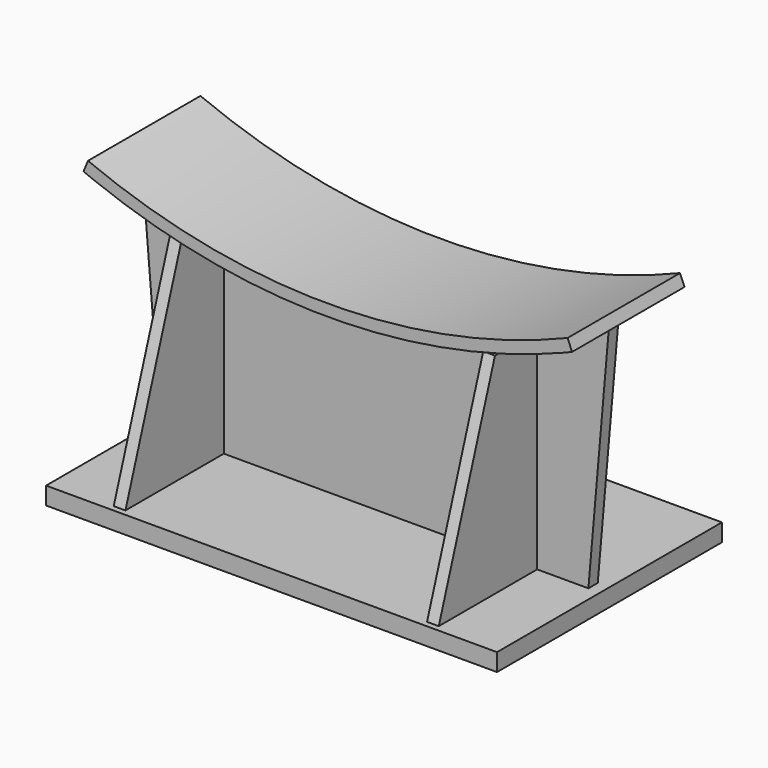
from build123d import *

# Parameters (mm, degrees)
F1_DEPTH  = 152.4
F2_DEPTH  = 12.7
F3_DEPTH  = 76.2
F4_W      = 12.7
F4_H      = 227.33
F5_DEPTH  = 25.4
F6_DEPTH  = 133.35
F8_DEPTH  = 12.7
F10_DEPTH = 12.7


with BuildPart() as f1:
    # F0 (on Front) → F1 (new body, symmetric)
    with BuildSketch(Plane.XZ):
        Polygon((231.775, -973.5972180367), (-231.775, -973.5972180367), (-244.475, -973.5972180367), (-244.475, -992.6472180367), (244.475, -992.6472180367), (244.475, -973.5972180367), align=None)
    extrude(amount=F1_DEPTH, both=True)

    # F0 (on Front) → F2 (join)
    with BuildSketch(Plane.XZ):
        with BuildLine():
            ThreePointArc((260.0142581205, -699.6271664014), (0, -751.3472180367), (-260.0142581205, -699.6271664014))
            Line((-260.0142581205, -699.6271664014), (-264.8743377115, -711.3604364643))
            ThreePointArc((-264.8743377115, -711.3604364643), (-259.0018869142, -713.7614132329), (-253.1076754433, -716.1084622195))
            ThreePointArc((-253.1076754433, -716.1084622195), (0.5785166895, -764.0469762671), (254.1842179232, -715.6844545199))
            ThreePointArc((254.1842179232, -715.6844545199), (259.5382829708, -713.5447086205), (264.8743377115, -711.3604364643))
            Line((264.8743377115, -711.3604364643), (260.0142581205, -699.6271664014))
        make_face()
        with BuildLine():
            ThreePointArc((254.1842179232, -715.6844545199), (0.5785166895, -764.0469762671), (-253.1076754433, -716.1084622195))
            Line((-253.1076754433, -716.1084622195), (-231.775, -973.5972180367))
            Line((-231.775, -973.5972180367), (231.775, -973.5972180367))
            Line((231.775, -973.5972180367), (254.1842179232, -715.6844545199))
        make_face()
        Polygon((231.775, -973.5972180367), (-231.775, -973.5972180367), (-244.475, -973.5972180367), (-244.475, -992.6472180367), (244.475, -992.6472180367), (244.475, -973.5972180367), align=None)
    extrude(amount=F2_DEPTH)

    # F0 (on Front) → F3 (join, symmetric)
    with BuildSketch(Plane.XZ):
        with BuildLine():
            ThreePointArc((260.0142581205, -699.6271664014), (0, -751.3472180367), (-260.0142581205, -699.6271664014))
            Line((-260.0142581205, -699.6271664014), (-264.8743377115, -711.3604364643))
            ThreePointArc((-264.8743377115, -711.3604364643), (-259.0018869142, -713.7614132329), (-253.1076754433, -716.1084622195))
            ThreePointArc((-253.1076754433, -716.1084622195), (0.5785166895, -764.0469762671), (254.1842179232, -715.6844545199))
            ThreePointArc((254.1842179232, -715.6844545199), (259.5382829708, -713.5447086205), (264.8743377115, -711.3604364643))
            Line((264.8743377115, -711.3604364643), (260.0142581205, -699.6271664014))
        make_face()
    extrude(amount=F3_DEPTH, both=True)

    # F4 (on face) → F5 (join)
    with BuildSketch(Plane.XZ.offset(12.7)):
        with Locations((-169.8625, -859.9322180367)):
            Rectangle(F4_W, F4_H)
        with Locations((169.8625, -859.9322180367)):
            Rectangle(F4_W, F4_H)
    extrude(amount=F5_DEPTH)

    # F4 (on face) → F6 (join)
    with BuildSketch(Plane.XZ.offset(12.7)):
        with Locations((-169.8625, -859.9322180367)):
            Rectangle(F4_W, F4_H)
        with Locations((169.8625, -859.9322180367)):
            Rectangle(F4_W, F4_H)
    extrude(amount=F6_DEPTH)

    # F7 (on face) → F8 (cut)
    with BuildSketch(Plane(origin=(-176.2125, 0, 0), x_dir=(0, -1, 0), z_dir=(-1, 0, 0))):
        Polygon((146.05, -746.2672180367), (69.85, -746.2672180367), (146.05, -973.5972180367), align=None)
    extrude(amount=-F8_DEPTH, mode=Mode.SUBTRACT)

    # F9 (on face) → F10 (cut)
    with BuildSketch(Plane.YZ.offset(176.2125)):
        Polygon((-146.05, -973.5972180367), (-69.85, -746.2672180367), (-146.05, -746.2672180367), align=None)
    extrude(amount=-F10_DEPTH, mode=Mode.SUBTRACT)


solid = f1.part
